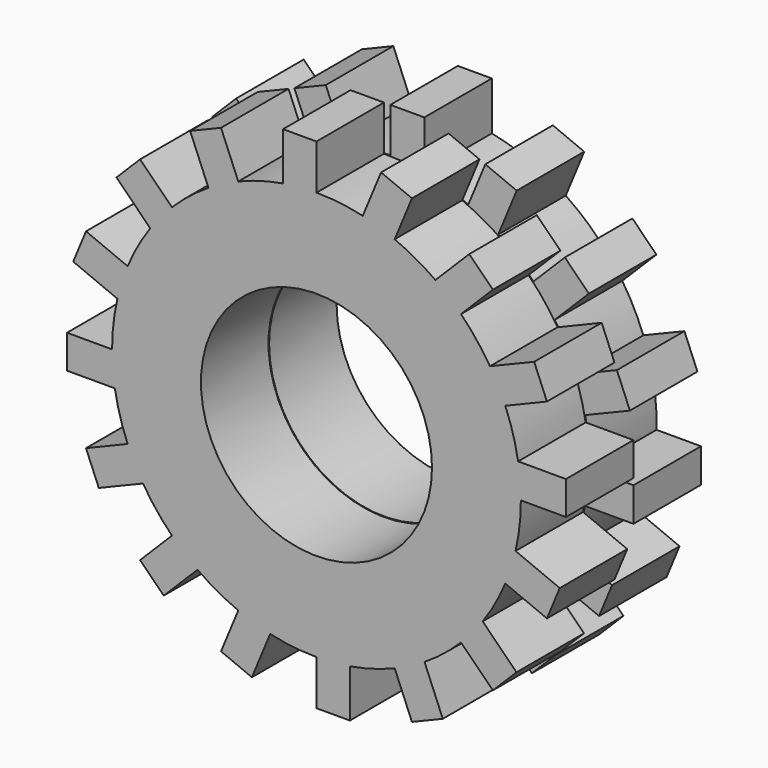
from build123d import *

# Parameters (mm, degrees)
F0_R     = 4.01
F1_DEPTH = 2.93
F2_R     = 3.988624373
F3_DEPTH = 2.93


with BuildPart() as f1:
    # F0 (on Front) → F1 (new body)
    with BuildSketch(Plane.XZ):
        with BuildLine():
            Line((6.9995303414, 0), (7.095, 0))
            ThreePointArc((7.095, 0), (7.071092305, 0.5819610072), (6.9995303414, 1.16))
            Line((6.9995303414, 1.16), (6.9995303414, 0))
        make_face()
        with BuildLine():
            ThreePointArc((6.9106356011, -1.6069040383), (7.0487582094, -0.8087228851), (7.095, 0))
            Line((7.095, 0), (6.9995303414, 0))
            Line((6.9995303414, 0), (6.9995303414, 1.16))
            ThreePointArc((6.9995303414, 1.16), (6.8216882888, 1.9502804644), (6.5549252832, 2.7151389526))
            Line((6.5549252832, 2.7151389526), (6.4667228196, 2.678604296))
            Line((6.4667228196, 2.678604296), (6.0228100381, 3.7503045537))
            ThreePointArc((6.0228100381, 3.7503045537), (5.556078165, 4.4123712927), (5.0169226125, 5.0169226125))
            Line((5.0169226125, 5.0169226125), (4.9494153695, 4.9494153695))
            Line((4.9494153695, 4.9494153695), (4.1291715033, 5.7696592357))
            ThreePointArc((4.1291715033, 5.7696592357), (3.4446055065, 6.2027185898), (2.7151389526, 6.5549252832))
            Line((2.7151389526, 6.5549252832), (2.678604296, 6.4667228196))
            Line((2.678604296, 6.4667228196), (1.6069040383, 6.9106356011))
            ThreePointArc((1.6069040383, 6.9106356011), (0.8087228851, 7.0487582094), (0, 7.095))
            Line((0, 7.095), (0, 6.9995303414))
            Line((0, 6.9995303414), (-1.16, 6.9995303414))
            ThreePointArc((-1.16, 6.9995303414), (-1.9502804644, 6.8216882888), (-2.7151389526, 6.5549252832))
            Line((-2.7151389526, 6.5549252832), (-2.678604296, 6.4667228196))
            Line((-2.678604296, 6.4667228196), (-3.7503045537, 6.0228100381))
            ThreePointArc((-3.7503045537, 6.0228100381), (-4.4123712927, 5.556078165), (-5.0169226125, 5.0169226125))
            Line((-5.0169226125, 5.0169226125), (-4.9494153695, 4.9494153695))
            Line((-4.9494153695, 4.9494153695), (-5.7696592357, 4.1291715033))
            ThreePointArc((-5.7696592357, 4.1291715033), (-6.2027185898, 3.4446055065), (-6.5549252832, 2.7151389526))
            Line((-6.5549252832, 2.7151389526), (-6.4667228196, 2.678604296))
            Line((-6.4667228196, 2.678604296), (-6.9106356011, 1.6069040383))
            ThreePointArc((-6.9106356011, 1.6069040383), (-7.0487582094, 0.8087228851), (-7.095, 0))
            Line((-7.095, 0), (-6.9995303414, 0))
            Line((-6.9995303414, 0), (-6.9995303414, -1.16))
            ThreePointArc((-6.9995303414, -1.16), (-6.8216882888, -1.9502804644), (-6.5549252832, -2.7151389526))
            Line((-6.5549252832, -2.7151389526), (-6.4667228196, -2.678604296))
            Line((-6.4667228196, -2.678604296), (-6.0228100381, -3.7503045537))
            ThreePointArc((-6.0228100381, -3.7503045537), (-5.556078165, -4.4123712927), (-5.0169226125, -5.0169226125))
            Line((-5.0169226125, -5.0169226125), (-4.9494153695, -4.9494153695))
            Line((-4.9494153695, -4.9494153695), (-4.1291715033, -5.7696592357))
            ThreePointArc((-4.1291715033, -5.7696592357), (-3.4446055065, -6.2027185898), (-2.7151389526, -6.5549252832))
            Line((-2.7151389526, -6.5549252832), (-2.678604296, -6.4667228196))
            Line((-2.678604296, -6.4667228196), (-1.6069040383, -6.9106356011))
            ThreePointArc((-1.6069040383, -6.9106356011), (-0.8087228851, -7.0487582094), (0, -7.095))
            Line((0, -7.095), (0, -6.9995303414))
            Line((0, -6.9995303414), (1.16, -6.9995303414))
            ThreePointArc((1.16, -6.9995303414), (1.9502804644, -6.8216882888), (2.7151389526, -6.5549252832))
            Line((2.7151389526, -6.5549252832), (2.678604296, -6.4667228196))
            Line((2.678604296, -6.4667228196), (3.7503045537, -6.0228100381))
            ThreePointArc((3.7503045537, -6.0228100381), (4.4123712927, -5.556078165), (5.0169226125, -5.0169226125))
            Line((5.0169226125, -5.0169226125), (4.9494153695, -4.9494153695))
            Line((4.9494153695, -4.9494153695), (5.7696592357, -4.1291715033))
            ThreePointArc((5.7696592357, -4.1291715033), (6.2027185898, -3.4446055065), (6.5549252832, -2.7151389526))
            Line((6.5549252832, -2.7151389526), (6.4667228196, -2.678604296))
            Line((6.4667228196, -2.678604296), (6.9106356011, -1.6069040383))
        make_face()
        Circle(F0_R, mode=Mode.SUBTRACT)
        with BuildLine():
            ThreePointArc((6.9995303414, 1.16), (7.071092305, 0.5819610072), (7.095, 0))
            Line((7.095, 0), (8.6595303414, 0))
            Line((8.6595303414, 0), (8.6595303414, 1.16))
            Line((8.6595303414, 1.16), (6.9995303414, 1.16))
        make_face()
        with BuildLine():
            Line((8.4442756251, -2.242158536), (6.9106356011, -1.6069040383))
            ThreePointArc((6.9106356011, -1.6069040383), (6.7555442889, -2.1683280106), (6.5549252832, -2.7151389526))
            Line((6.5549252832, -2.7151389526), (8.0003628436, -3.3138587937))
            Line((8.0003628436, -3.3138587937), (8.4442756251, -2.242158536))
        make_face()
        with BuildLine():
            ThreePointArc((6.5549252832, -2.7151389526), (6.7555442889, -2.1683280106), (6.9106356011, -1.6069040383))
            Line((6.9106356011, -1.6069040383), (6.4667228196, -2.678604296))
            Line((6.4667228196, -2.678604296), (6.5549252832, -2.7151389526))
        make_face()
        with BuildLine():
            Line((6.4667228196, 2.678604296), (6.5549252832, 2.7151389526))
            ThreePointArc((6.5549252832, 2.7151389526), (6.3101306174, 3.2436517371), (6.0228100381, 3.7503045537))
            Line((6.0228100381, 3.7503045537), (6.4667228196, 2.678604296))
        make_face()
        with BuildLine():
            ThreePointArc((6.0228100381, 3.7503045537), (6.3101306174, 3.2436517371), (6.5549252832, 2.7151389526))
            Line((6.5549252832, 2.7151389526), (8.0003628436, 3.3138587937))
            Line((8.0003628436, 3.3138587937), (7.556450062, 4.3855590514))
            Line((7.556450062, 4.3855590514), (6.0228100381, 3.7503045537))
        make_face()
        with BuildLine():
            Line((6.9434564925, -5.3029687601), (5.7696592357, -4.1291715033))
            ThreePointArc((5.7696592357, -4.1291715033), (5.4115258939, -4.5885087447), (5.0169226125, -5.0169226125))
            Line((5.0169226125, -5.0169226125), (6.1232126263, -6.1232126263))
            Line((6.1232126263, -6.1232126263), (6.9434564925, -5.3029687601))
        make_face()
        with BuildLine():
            ThreePointArc((5.0169226125, -5.0169226125), (5.4115258939, -4.5885087447), (5.7696592357, -4.1291715033))
            Line((5.7696592357, -4.1291715033), (4.9494153695, -4.9494153695))
            Line((4.9494153695, -4.9494153695), (5.0169226125, -5.0169226125))
        make_face()
        with BuildLine():
            Line((4.9494153695, 4.9494153695), (5.0169226125, 5.0169226125))
            ThreePointArc((5.0169226125, 5.0169226125), (4.5885087447, 5.4115258939), (4.1291715033, 5.7696592357))
            Line((4.1291715033, 5.7696592357), (4.9494153695, 4.9494153695))
        make_face()
        with BuildLine():
            ThreePointArc((4.1291715033, 5.7696592357), (4.5885087447, 5.4115258939), (5.0169226125, 5.0169226125))
            Line((5.0169226125, 5.0169226125), (6.1232126263, 6.1232126263))
            Line((6.1232126263, 6.1232126263), (5.3029687601, 6.9434564925))
            Line((5.3029687601, 6.9434564925), (4.1291715033, 5.7696592357))
        make_face()
        with BuildLine():
            Line((4.3855590514, -7.556450062), (3.7503045537, -6.0228100381))
            ThreePointArc((3.7503045537, -6.0228100381), (3.2436517371, -6.3101306174), (2.7151389526, -6.5549252832))
            Line((2.7151389526, -6.5549252832), (3.3138587937, -8.0003628436))
            Line((3.3138587937, -8.0003628436), (4.3855590514, -7.556450062))
        make_face()
        with BuildLine():
            ThreePointArc((2.7151389526, -6.5549252832), (3.2436517371, -6.3101306174), (3.7503045537, -6.0228100381))
            Line((3.7503045537, -6.0228100381), (2.678604296, -6.4667228196))
            Line((2.678604296, -6.4667228196), (2.7151389526, -6.5549252832))
        make_face()
        with BuildLine():
            Line((2.678604296, 6.4667228196), (2.7151389526, 6.5549252832))
            ThreePointArc((2.7151389526, 6.5549252832), (2.1683280106, 6.7555442889), (1.6069040383, 6.9106356011))
            Line((1.6069040383, 6.9106356011), (2.678604296, 6.4667228196))
        make_face()
        with BuildLine():
            ThreePointArc((1.6069040383, 6.9106356011), (2.1683280106, 6.7555442889), (2.7151389526, 6.5549252832))
            Line((2.7151389526, 6.5549252832), (3.3138587937, 8.0003628436))
            Line((3.3138587937, 8.0003628436), (2.242158536, 8.4442756251))
            Line((2.242158536, 8.4442756251), (1.6069040383, 6.9106356011))
        make_face()
        with BuildLine():
            Line((1.16, -8.6595303414), (1.16, -6.9995303414))
            ThreePointArc((1.16, -6.9995303414), (0.5819610072, -7.071092305), (0, -7.095))
            Line((0, -7.095), (0, -8.6595303414))
            Line((0, -8.6595303414), (1.16, -8.6595303414))
        make_face()
        with BuildLine():
            ThreePointArc((0, -7.095), (0.5819610072, -7.071092305), (1.16, -6.9995303414))
            Line((1.16, -6.9995303414), (0, -6.9995303414))
            Line((0, -6.9995303414), (0, -7.095))
        make_face()
        with BuildLine():
            Line((0, 6.9995303414), (0, 7.095))
            ThreePointArc((0, 7.095), (-0.5819610072, 7.071092305), (-1.16, 6.9995303414))
            Line((-1.16, 6.9995303414), (0, 6.9995303414))
        make_face()
        with BuildLine():
            ThreePointArc((-1.16, 6.9995303414), (-0.5819610072, 7.071092305), (0, 7.095))
            Line((0, 7.095), (0, 8.6595303414))
            Line((0, 8.6595303414), (-1.16, 8.6595303414))
            Line((-1.16, 8.6595303414), (-1.16, 6.9995303414))
        make_face()
        with BuildLine():
            Line((-2.242158536, -8.4442756251), (-1.6069040383, -6.9106356011))
            ThreePointArc((-1.6069040383, -6.9106356011), (-2.1683280106, -6.7555442889), (-2.7151389526, -6.5549252832))
            Line((-2.7151389526, -6.5549252832), (-3.3138587937, -8.0003628436))
            Line((-3.3138587937, -8.0003628436), (-2.242158536, -8.4442756251))
        make_face()
        with BuildLine():
            ThreePointArc((-2.7151389526, -6.5549252832), (-2.1683280106, -6.7555442889), (-1.6069040383, -6.9106356011))
            Line((-1.6069040383, -6.9106356011), (-2.678604296, -6.4667228196))
            Line((-2.678604296, -6.4667228196), (-2.7151389526, -6.5549252832))
        make_face()
        with BuildLine():
            Line((-2.678604296, 6.4667228196), (-2.7151389526, 6.5549252832))
            ThreePointArc((-2.7151389526, 6.5549252832), (-3.2436517371, 6.3101306174), (-3.7503045537, 6.0228100381))
            Line((-3.7503045537, 6.0228100381), (-2.678604296, 6.4667228196))
        make_face()
        with BuildLine():
            ThreePointArc((-3.7503045537, 6.0228100381), (-3.2436517371, 6.3101306174), (-2.7151389526, 6.5549252832))
            Line((-2.7151389526, 6.5549252832), (-3.3138587937, 8.0003628436))
            Line((-3.3138587937, 8.0003628436), (-4.3855590514, 7.556450062))
            Line((-4.3855590514, 7.556450062), (-3.7503045537, 6.0228100381))
        make_face()
        with BuildLine():
            Line((-5.3029687601, -6.9434564925), (-4.1291715033, -5.7696592357))
            ThreePointArc((-4.1291715033, -5.7696592357), (-4.5885087447, -5.4115258939), (-5.0169226125, -5.0169226125))
            Line((-5.0169226125, -5.0169226125), (-6.1232126263, -6.1232126263))
            Line((-6.1232126263, -6.1232126263), (-5.3029687601, -6.9434564925))
        make_face()
        with BuildLine():
            ThreePointArc((-5.0169226125, -5.0169226125), (-4.5885087447, -5.4115258939), (-4.1291715033, -5.7696592357))
            Line((-4.1291715033, -5.7696592357), (-4.9494153695, -4.9494153695))
            Line((-4.9494153695, -4.9494153695), (-5.0169226125, -5.0169226125))
        make_face()
        with BuildLine():
            Line((-4.9494153695, 4.9494153695), (-5.0169226125, 5.0169226125))
            ThreePointArc((-5.0169226125, 5.0169226125), (-5.4115258939, 4.5885087447), (-5.7696592357, 4.1291715033))
            Line((-5.7696592357, 4.1291715033), (-4.9494153695, 4.9494153695))
        make_face()
        with BuildLine():
            ThreePointArc((-5.7696592357, 4.1291715033), (-5.4115258939, 4.5885087447), (-5.0169226125, 5.0169226125))
            Line((-5.0169226125, 5.0169226125), (-6.1232126263, 6.1232126263))
            Line((-6.1232126263, 6.1232126263), (-6.9434564925, 5.3029687601))
            Line((-6.9434564925, 5.3029687601), (-5.7696592357, 4.1291715033))
        make_face()
        with BuildLine():
            Line((-7.556450062, -4.3855590514), (-6.0228100381, -3.7503045537))
            ThreePointArc((-6.0228100381, -3.7503045537), (-6.3101306174, -3.2436517371), (-6.5549252832, -2.7151389526))
            Line((-6.5549252832, -2.7151389526), (-8.0003628436, -3.3138587937))
            Line((-8.0003628436, -3.3138587937), (-7.556450062, -4.3855590514))
        make_face()
        with BuildLine():
            ThreePointArc((-6.5549252832, -2.7151389526), (-6.3101306174, -3.2436517371), (-6.0228100381, -3.7503045537))
            Line((-6.0228100381, -3.7503045537), (-6.4667228196, -2.678604296))
            Line((-6.4667228196, -2.678604296), (-6.5549252832, -2.7151389526))
        make_face()
        with BuildLine():
            Line((-6.4667228196, 2.678604296), (-6.5549252832, 2.7151389526))
            ThreePointArc((-6.5549252832, 2.7151389526), (-6.7555442889, 2.1683280106), (-6.9106356011, 1.6069040383))
            Line((-6.9106356011, 1.6069040383), (-6.4667228196, 2.678604296))
        make_face()
        with BuildLine():
            ThreePointArc((-6.9106356011, 1.6069040383), (-6.7555442889, 2.1683280106), (-6.5549252832, 2.7151389526))
            Line((-6.5549252832, 2.7151389526), (-8.0003628436, 3.3138587937))
            Line((-8.0003628436, 3.3138587937), (-8.4442756251, 2.242158536))
            Line((-8.4442756251, 2.242158536), (-6.9106356011, 1.6069040383))
        make_face()
        with BuildLine():
            Line((-8.6595303414, -1.16), (-6.9995303414, -1.16))
            ThreePointArc((-6.9995303414, -1.16), (-7.071092305, -0.5819610072), (-7.095, 0))
            Line((-7.095, 0), (-8.6595303414, 0))
            Line((-8.6595303414, 0), (-8.6595303414, -1.16))
        make_face()
        with BuildLine():
            ThreePointArc((-7.095, 0), (-7.071092305, -0.5819610072), (-6.9995303414, -1.16))
            Line((-6.9995303414, -1.16), (-6.9995303414, 0))
            Line((-6.9995303414, 0), (-7.095, 0))
        make_face()
    extrude(amount=F1_DEPTH)

    # F2 (on face) → F3 (join)
    with BuildSketch(Plane(origin=(0, 0, 0), x_dir=(-1, 0, 0), z_dir=(0, 1, 0))):
        with BuildLine():
            ThreePointArc((6.984723278, -1.3782818685), (7.0856594416, -0.6924236109), (7.1194115051, 0))
            ThreePointArc((7.1194115051, 0), (7.1185647713, 0.1097987936), (7.1160247715, 0.2195714698))
            Line((7.1160247715, 0.2195714698), (6.9555894575, 0.2195714698))
            Line((6.9555894575, 0.2195714698), (6.9555894575, 1.3995714698))
            Line((6.9555894575, 1.3995714698), (6.980488513, 1.3995714698))
            ThreePointArc((6.980488513, 1.3995714698), (6.7785117034, 2.1766486316), (6.4903232755, 2.9260423712))
            Line((6.4903232755, 2.9260423712), (6.3421003726, 2.8646464346))
            Line((6.3421003726, 2.8646464346), (5.8905339224, 3.954824283))
            Line((5.8905339224, 3.954824283), (5.9135376501, 3.964352739))
            ThreePointArc((5.9135376501, 3.964352739), (5.4295608543, 4.6049852452), (4.8765288957, 5.1870498463))
            Line((4.8765288957, 5.1870498463), (4.7630839973, 5.0736049478))
            Line((4.7630839973, 5.0736049478), (3.9286979955, 5.9079909496))
            Line((3.9286979955, 5.9079909496), (3.9463042864, 5.9255972406))
            ThreePointArc((3.9463042864, 5.9255972406), (3.2540085842, 6.3322545995), (2.5203271975, 6.6583760029))
            Line((2.5203271975, 6.6583760029), (2.4589312608, 6.5101531))
            Line((2.4589312608, 6.5101531), (1.3687534125, 6.9617195502))
            Line((1.3687534125, 6.9617195502), (1.3782818685, 6.984723278))
            ThreePointArc((1.3782818685, 6.984723278), (0.5830630048, 7.0954955931), (-0.2195714698, 7.1160247715))
            Line((-0.2195714698, 7.1160247715), (-0.2195714698, 6.9555894575))
            Line((-0.2195714698, 6.9555894575), (-1.3995714698, 6.9555894575))
            Line((-1.3995714698, 6.9555894575), (-1.3995714698, 6.980488513))
            ThreePointArc((-1.3995714698, 6.980488513), (-2.1766486316, 6.7785117034), (-2.9260423712, 6.4903232755))
            Line((-2.9260423712, 6.4903232755), (-2.8646464346, 6.3421003726))
            Line((-2.8646464346, 6.3421003726), (-3.954824283, 5.8905339224))
            Line((-3.954824283, 5.8905339224), (-3.964352739, 5.9135376501))
            ThreePointArc((-3.964352739, 5.9135376501), (-4.6049852452, 5.4295608543), (-5.1870498463, 4.8765288957))
            Line((-5.1870498463, 4.8765288957), (-5.0736049478, 4.7630839973))
            Line((-5.0736049478, 4.7630839973), (-5.9079909496, 3.9286979955))
            Line((-5.9079909496, 3.9286979955), (-5.9255972406, 3.9463042864))
            ThreePointArc((-5.9255972406, 3.9463042864), (-6.3322545995, 3.2540085842), (-6.6583760029, 2.5203271975))
            Line((-6.6583760029, 2.5203271975), (-6.5101531, 2.4589312608))
            Line((-6.5101531, 2.4589312608), (-6.9617195502, 1.3687534125))
            Line((-6.9617195502, 1.3687534125), (-6.984723278, 1.3782818685))
            ThreePointArc((-6.984723278, 1.3782818685), (-7.0954955931, 0.5830630048), (-7.1160247715, -0.2195714698))
            Line((-7.1160247715, -0.2195714698), (-6.9555894575, -0.2195714698))
            Line((-6.9555894575, -0.2195714698), (-6.9555894575, -1.3995714698))
            Line((-6.9555894575, -1.3995714698), (-6.980488513, -1.3995714698))
            ThreePointArc((-6.980488513, -1.3995714698), (-6.7785117034, -2.1766486316), (-6.4903232755, -2.9260423712))
            Line((-6.4903232755, -2.9260423712), (-6.3421003726, -2.8646464346))
            Line((-6.3421003726, -2.8646464346), (-5.8905339224, -3.954824283))
            Line((-5.8905339224, -3.954824283), (-5.9135376501, -3.964352739))
            ThreePointArc((-5.9135376501, -3.964352739), (-5.4295608543, -4.6049852452), (-4.8765288957, -5.1870498463))
            Line((-4.8765288957, -5.1870498463), (-4.7630839973, -5.0736049478))
            Line((-4.7630839973, -5.0736049478), (-3.9286979955, -5.9079909496))
            Line((-3.9286979955, -5.9079909496), (-3.9463042864, -5.9255972406))
            ThreePointArc((-3.9463042864, -5.9255972406), (-3.2540085842, -6.3322545995), (-2.5203271975, -6.6583760029))
            Line((-2.5203271975, -6.6583760029), (-2.4589312608, -6.5101531))
            Line((-2.4589312608, -6.5101531), (-1.3687534125, -6.9617195502))
            Line((-1.3687534125, -6.9617195502), (-1.3782818685, -6.984723278))
            ThreePointArc((-1.3782818685, -6.984723278), (-0.5830630048, -7.0954955931), (0.2195714698, -7.1160247715))
            Line((0.2195714698, -7.1160247715), (0.2195714698, -6.9555894575))
            Line((0.2195714698, -6.9555894575), (1.3995714698, -6.9555894575))
            Line((1.3995714698, -6.9555894575), (1.3995714698, -6.980488513))
            ThreePointArc((1.3995714698, -6.980488513), (2.1766486316, -6.7785117034), (2.9260423712, -6.4903232755))
            Line((2.9260423712, -6.4903232755), (2.8646464346, -6.3421003726))
            Line((2.8646464346, -6.3421003726), (3.954824283, -5.8905339224))
            Line((3.954824283, -5.8905339224), (3.964352739, -5.9135376501))
            ThreePointArc((3.964352739, -5.9135376501), (4.6049852452, -5.4295608543), (5.1870498463, -4.8765288957))
            Line((5.1870498463, -4.8765288957), (5.0736049478, -4.7630839973))
            Line((5.0736049478, -4.7630839973), (5.9079909496, -3.9286979955))
            Line((5.9079909496, -3.9286979955), (5.9255972406, -3.9463042864))
            ThreePointArc((5.9255972406, -3.9463042864), (6.3322545995, -3.2540085842), (6.6583760029, -2.5203271975))
            Line((6.6583760029, -2.5203271975), (6.5101531, -2.4589312608))
            Line((6.5101531, -2.4589312608), (6.9617195502, -1.3687534125))
            Line((6.9617195502, -1.3687534125), (6.984723278, -1.3782818685))
        make_face()
        Circle(F2_R, mode=Mode.SUBTRACT)
        with BuildLine():
            Line((6.9555894575, 0.2195714698), (7.1160247715, 0.2195714698))
            ThreePointArc((7.1160247715, 0.2195714698), (7.0729075842, 0.8124029075), (6.980488513, 1.3995714698))
            Line((6.980488513, 1.3995714698), (6.9555894575, 1.3995714698))
            Line((6.9555894575, 1.3995714698), (6.9555894575, 0.2195714698))
        make_face()
        with BuildLine():
            ThreePointArc((6.980488513, 1.3995714698), (7.0729075842, 0.8124029075), (7.1160247715, 0.2195714698))
            Line((7.1160247715, 0.2195714698), (8.6595303414, 0.2195714698))
            Line((8.6595303414, 0.2195714698), (8.6595303414, 1.3995714698))
            Line((8.6595303414, 1.3995714698), (6.980488513, 1.3995714698))
        make_face()
        with BuildLine():
            Line((8.5359556575, -2.0208233585), (6.984723278, -1.3782818685))
            ThreePointArc((6.984723278, -1.3782818685), (6.8454076855, -1.9561221328), (6.6583760029, -2.5203271975))
            Line((6.6583760029, -2.5203271975), (8.0843892073, -3.1110012068))
            Line((8.0843892073, -3.1110012068), (8.5359556575, -2.0208233585))
        make_face()
        with BuildLine():
            ThreePointArc((6.6583760029, -2.5203271975), (6.8454076855, -1.9561221328), (6.984723278, -1.3782818685))
            Line((6.984723278, -1.3782818685), (6.9617195502, -1.3687534125))
            Line((6.9617195502, -1.3687534125), (6.5101531, -2.4589312608))
            Line((6.5101531, -2.4589312608), (6.6583760029, -2.5203271975))
        make_face()
        with BuildLine():
            Line((6.3421003726, 2.8646464346), (6.4903232755, 2.9260423712))
            ThreePointArc((6.4903232755, 2.9260423712), (6.2236214193, 3.4572469695), (5.9135376501, 3.964352739))
            Line((5.9135376501, 3.964352739), (5.8905339224, 3.954824283))
            Line((5.8905339224, 3.954824283), (6.3421003726, 2.8646464346))
        make_face()
        with BuildLine():
            ThreePointArc((5.9135376501, 3.964352739), (6.2236214193, 3.4572469695), (6.4903232755, 2.9260423712))
            Line((6.4903232755, 2.9260423712), (7.9163364799, 3.5167163806))
            Line((7.9163364799, 3.5167163806), (7.4647700297, 4.606894229))
            Line((7.4647700297, 4.606894229), (5.9135376501, 3.964352739))
        make_face()
        with BuildLine():
            Line((7.1128591033, -5.1335661492), (5.9255972406, -3.9463042864))
            ThreePointArc((5.9255972406, -3.9463042864), (5.5757565204, -4.4268453106), (5.1870498463, -4.8765288957))
            Line((5.1870498463, -4.8765288957), (6.2784731015, -5.967952151))
            Line((6.2784731015, -5.967952151), (7.1128591033, -5.1335661492))
        make_face()
        with BuildLine():
            ThreePointArc((5.1870498463, -4.8765288957), (5.5757565204, -4.4268453106), (5.9255972406, -3.9463042864))
            Line((5.9255972406, -3.9463042864), (5.9079909496, -3.9286979955))
            Line((5.9079909496, -3.9286979955), (5.0736049478, -4.7630839973))
            Line((5.0736049478, -4.7630839973), (5.1870498463, -4.8765288957))
        make_face()
        with BuildLine():
            Line((4.7630839973, 5.0736049478), (4.8765288957, 5.1870498463))
            ThreePointArc((4.8765288957, 5.1870498463), (4.4268453106, 5.5757565204), (3.9463042864, 5.9255972406))
            Line((3.9463042864, 5.9255972406), (3.9286979955, 5.9079909496))
            Line((3.9286979955, 5.9079909496), (4.7630839973, 5.0736049478))
        make_face()
        with BuildLine():
            ThreePointArc((3.9463042864, 5.9255972406), (4.4268453106, 5.5757565204), (4.8765288957, 5.1870498463))
            Line((4.8765288957, 5.1870498463), (5.967952151, 6.2784731015))
            Line((5.967952151, 6.2784731015), (5.1335661492, 7.1128591033))
            Line((5.1335661492, 7.1128591033), (3.9463042864, 5.9255972406))
        make_face()
        with BuildLine():
            Line((4.606894229, -7.4647700297), (3.964352739, -5.9135376501))
            ThreePointArc((3.964352739, -5.9135376501), (3.4572469695, -6.2236214193), (2.9260423712, -6.4903232755))
            Line((2.9260423712, -6.4903232755), (3.5167163806, -7.9163364799))
            Line((3.5167163806, -7.9163364799), (4.606894229, -7.4647700297))
        make_face()
        with BuildLine():
            ThreePointArc((2.9260423712, -6.4903232755), (3.4572469695, -6.2236214193), (3.964352739, -5.9135376501))
            Line((3.964352739, -5.9135376501), (3.954824283, -5.8905339224))
            Line((3.954824283, -5.8905339224), (2.8646464346, -6.3421003726))
            Line((2.8646464346, -6.3421003726), (2.9260423712, -6.4903232755))
        make_face()
        with BuildLine():
            Line((2.4589312608, 6.5101531), (2.5203271975, 6.6583760029))
            ThreePointArc((2.5203271975, 6.6583760029), (1.9561221328, 6.8454076855), (1.3782818685, 6.984723278))
            Line((1.3782818685, 6.984723278), (1.3687534125, 6.9617195502))
            Line((1.3687534125, 6.9617195502), (2.4589312608, 6.5101531))
        make_face()
        with BuildLine():
            ThreePointArc((1.3782818685, 6.984723278), (1.9561221328, 6.8454076855), (2.5203271975, 6.6583760029))
            Line((2.5203271975, 6.6583760029), (3.1110012068, 8.0843892073))
            Line((3.1110012068, 8.0843892073), (2.0208233585, 8.5359556575))
            Line((2.0208233585, 8.5359556575), (1.3782818685, 6.984723278))
        make_face()
        with BuildLine():
            Line((1.3995714698, -8.6595303414), (1.3995714698, -6.980488513))
            ThreePointArc((1.3995714698, -6.980488513), (0.8124029075, -7.0729075842), (0.2195714698, -7.1160247715))
            Line((0.2195714698, -7.1160247715), (0.2195714698, -8.6595303414))
            Line((0.2195714698, -8.6595303414), (1.3995714698, -8.6595303414))
        make_face()
        with BuildLine():
            ThreePointArc((0.2195714698, -7.1160247715), (0.8124029075, -7.0729075842), (1.3995714698, -6.980488513))
            Line((1.3995714698, -6.980488513), (1.3995714698, -6.9555894575))
            Line((1.3995714698, -6.9555894575), (0.2195714698, -6.9555894575))
            Line((0.2195714698, -6.9555894575), (0.2195714698, -7.1160247715))
        make_face()
        with BuildLine():
            Line((-0.2195714698, 6.9555894575), (-0.2195714698, 7.1160247715))
            ThreePointArc((-0.2195714698, 7.1160247715), (-0.8124029075, 7.0729075842), (-1.3995714698, 6.980488513))
            Line((-1.3995714698, 6.980488513), (-1.3995714698, 6.9555894575))
            Line((-1.3995714698, 6.9555894575), (-0.2195714698, 6.9555894575))
        make_face()
        with BuildLine():
            ThreePointArc((-1.3995714698, 6.980488513), (-0.8124029075, 7.0729075842), (-0.2195714698, 7.1160247715))
            Line((-0.2195714698, 7.1160247715), (-0.2195714698, 8.6595303414))
            Line((-0.2195714698, 8.6595303414), (-1.3995714698, 8.6595303414))
            Line((-1.3995714698, 8.6595303414), (-1.3995714698, 6.980488513))
        make_face()
        with BuildLine():
            Line((-2.0208233585, -8.5359556575), (-1.3782818685, -6.984723278))
            ThreePointArc((-1.3782818685, -6.984723278), (-1.9561221328, -6.8454076855), (-2.5203271975, -6.6583760029))
            Line((-2.5203271975, -6.6583760029), (-3.1110012068, -8.0843892073))
            Line((-3.1110012068, -8.0843892073), (-2.0208233585, -8.5359556575))
        make_face()
        with BuildLine():
            ThreePointArc((-2.5203271975, -6.6583760029), (-1.9561221328, -6.8454076855), (-1.3782818685, -6.984723278))
            Line((-1.3782818685, -6.984723278), (-1.3687534125, -6.9617195502))
            Line((-1.3687534125, -6.9617195502), (-2.4589312608, -6.5101531))
            Line((-2.4589312608, -6.5101531), (-2.5203271975, -6.6583760029))
        make_face()
        with BuildLine():
            Line((-2.8646464346, 6.3421003726), (-2.9260423712, 6.4903232755))
            ThreePointArc((-2.9260423712, 6.4903232755), (-3.4572469695, 6.2236214193), (-3.964352739, 5.9135376501))
            Line((-3.964352739, 5.9135376501), (-3.954824283, 5.8905339224))
            Line((-3.954824283, 5.8905339224), (-2.8646464346, 6.3421003726))
        make_face()
        with BuildLine():
            ThreePointArc((-3.964352739, 5.9135376501), (-3.4572469695, 6.2236214193), (-2.9260423712, 6.4903232755))
            Line((-2.9260423712, 6.4903232755), (-3.5167163806, 7.9163364799))
            Line((-3.5167163806, 7.9163364799), (-4.606894229, 7.4647700297))
            Line((-4.606894229, 7.4647700297), (-3.964352739, 5.9135376501))
        make_face()
        with BuildLine():
            Line((-5.1335661492, -7.1128591033), (-3.9463042864, -5.9255972406))
            ThreePointArc((-3.9463042864, -5.9255972406), (-4.4268453106, -5.5757565204), (-4.8765288957, -5.1870498463))
            Line((-4.8765288957, -5.1870498463), (-5.967952151, -6.2784731015))
            Line((-5.967952151, -6.2784731015), (-5.1335661492, -7.1128591033))
        make_face()
        with BuildLine():
            ThreePointArc((-4.8765288957, -5.1870498463), (-4.4268453106, -5.5757565204), (-3.9463042864, -5.9255972406))
            Line((-3.9463042864, -5.9255972406), (-3.9286979955, -5.9079909496))
            Line((-3.9286979955, -5.9079909496), (-4.7630839973, -5.0736049478))
            Line((-4.7630839973, -5.0736049478), (-4.8765288957, -5.1870498463))
        make_face()
        with BuildLine():
            Line((-5.0736049478, 4.7630839973), (-5.1870498463, 4.8765288957))
            ThreePointArc((-5.1870498463, 4.8765288957), (-5.5757565204, 4.4268453106), (-5.9255972406, 3.9463042864))
            Line((-5.9255972406, 3.9463042864), (-5.9079909496, 3.9286979955))
            Line((-5.9079909496, 3.9286979955), (-5.0736049478, 4.7630839973))
        make_face()
        with BuildLine():
            ThreePointArc((-5.9255972406, 3.9463042864), (-5.5757565204, 4.4268453106), (-5.1870498463, 4.8765288957))
            Line((-5.1870498463, 4.8765288957), (-6.2784731015, 5.967952151))
            Line((-6.2784731015, 5.967952151), (-7.1128591033, 5.1335661492))
            Line((-7.1128591033, 5.1335661492), (-5.9255972406, 3.9463042864))
        make_face()
        with BuildLine():
            Line((-7.4647700297, -4.606894229), (-5.9135376501, -3.964352739))
            ThreePointArc((-5.9135376501, -3.964352739), (-6.2236214193, -3.4572469695), (-6.4903232755, -2.9260423712))
            Line((-6.4903232755, -2.9260423712), (-7.9163364799, -3.5167163806))
            Line((-7.9163364799, -3.5167163806), (-7.4647700297, -4.606894229))
        make_face()
        with BuildLine():
            ThreePointArc((-6.4903232755, -2.9260423712), (-6.2236214193, -3.4572469695), (-5.9135376501, -3.964352739))
            Line((-5.9135376501, -3.964352739), (-5.8905339224, -3.954824283))
            Line((-5.8905339224, -3.954824283), (-6.3421003726, -2.8646464346))
            Line((-6.3421003726, -2.8646464346), (-6.4903232755, -2.9260423712))
        make_face()
        with BuildLine():
            Line((-6.5101531, 2.4589312608), (-6.6583760029, 2.5203271975))
            ThreePointArc((-6.6583760029, 2.5203271975), (-6.8454076855, 1.9561221328), (-6.984723278, 1.3782818685))
            Line((-6.984723278, 1.3782818685), (-6.9617195502, 1.3687534125))
            Line((-6.9617195502, 1.3687534125), (-6.5101531, 2.4589312608))
        make_face()
        with BuildLine():
            ThreePointArc((-6.984723278, 1.3782818685), (-6.8454076855, 1.9561221328), (-6.6583760029, 2.5203271975))
            Line((-6.6583760029, 2.5203271975), (-8.0843892073, 3.1110012068))
            Line((-8.0843892073, 3.1110012068), (-8.5359556575, 2.0208233585))
            Line((-8.5359556575, 2.0208233585), (-6.984723278, 1.3782818685))
        make_face()
        with BuildLine():
            Line((-8.6595303414, -1.3995714698), (-6.980488513, -1.3995714698))
            ThreePointArc((-6.980488513, -1.3995714698), (-7.0729075842, -0.8124029075), (-7.1160247715, -0.2195714698))
            Line((-7.1160247715, -0.2195714698), (-8.6595303414, -0.2195714698))
            Line((-8.6595303414, -0.2195714698), (-8.6595303414, -1.3995714698))
        make_face()
        with BuildLine():
            ThreePointArc((-7.1160247715, -0.2195714698), (-7.0729075842, -0.8124029075), (-6.980488513, -1.3995714698))
            Line((-6.980488513, -1.3995714698), (-6.9555894575, -1.3995714698))
            Line((-6.9555894575, -1.3995714698), (-6.9555894575, -0.2195714698))
            Line((-6.9555894575, -0.2195714698), (-7.1160247715, -0.2195714698))
        make_face()
    extrude(amount=F3_DEPTH)


solid = f1.part
